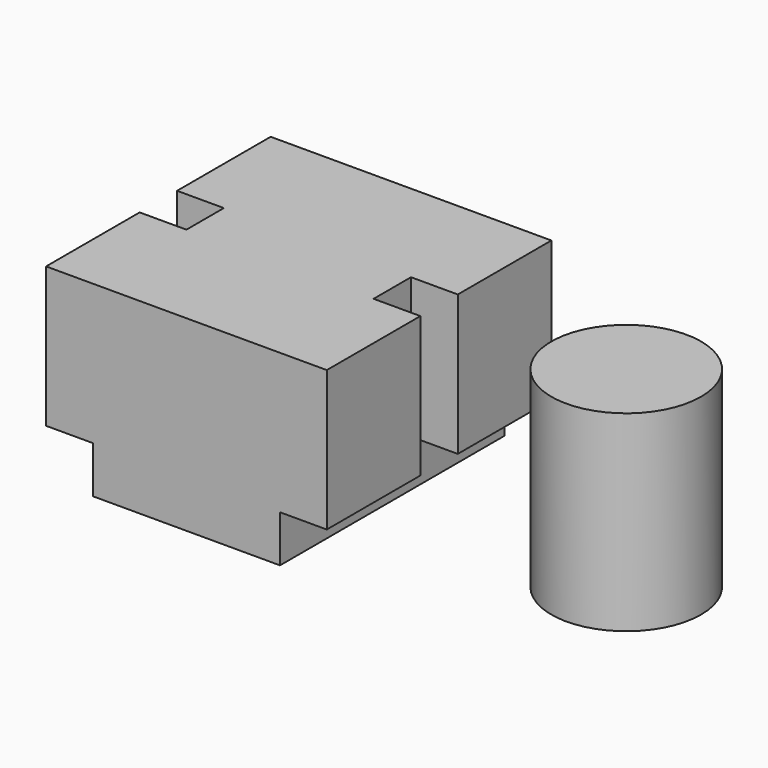
from build123d import *

# Parameters (mm, degrees)
SKETCH_W        = 6
SKETCH_H        = 6
PAD_DEPTH       = 4
SKETCH002_W     = 1
SKETCH002_H     = 4
POCKET_DEPTH    = 1
SKETCH003_W     = 6
SKETCH003_H     = 1
POCKET001_DEPTH = 1
SKETCH001_R     = 1.6
PAD001_DEPTH    = 4.1


with BuildPart() as body:
    # Sketch → Pad (new body)
    with BuildSketch(Plane.XY):
        Rectangle(SKETCH_W, SKETCH_H)
    extrude(amount=PAD_DEPTH)

    # Sketch002 (on Face4 of Pad) → Pocket (cut)
    with BuildSketch(Plane(origin=(-3, 0, 0), x_dir=(0, -1, 0), z_dir=(-1, 0, 0))):
        with Locations((0, 2)):
            Rectangle(SKETCH002_W, SKETCH002_H)
    pocket = extrude(amount=-POCKET_DEPTH, mode=Mode.SUBTRACT)

    # Mirrored: Pocket across YZ
    add(pocket.mirror(Plane.YZ), mode=Mode.SUBTRACT)

    # Sketch003 (on Face12 of Mirrored) → Pocket001 (cut)
    with BuildSketch(Plane(origin=(-3, 0, 0), x_dir=(0, -1, 0), z_dir=(-1, 0, 0))):
        with Locations((0, 0.5)):
            Rectangle(SKETCH003_W, SKETCH003_H)
    pocket001 = extrude(amount=-POCKET001_DEPTH, mode=Mode.SUBTRACT)

    # Mirrored001: Pocket001 across YZ
    add(pocket001.mirror(Plane.YZ), mode=Mode.SUBTRACT)


with BuildPart() as body001:
    # Sketch001 → Pad001 (new body)
    with BuildSketch(Plane.XY):
        with Locations((7, 0)):
            Circle(SKETCH001_R)
    extrude(amount=PAD001_DEPTH)


solid = Compound([body.part, body001.part])
